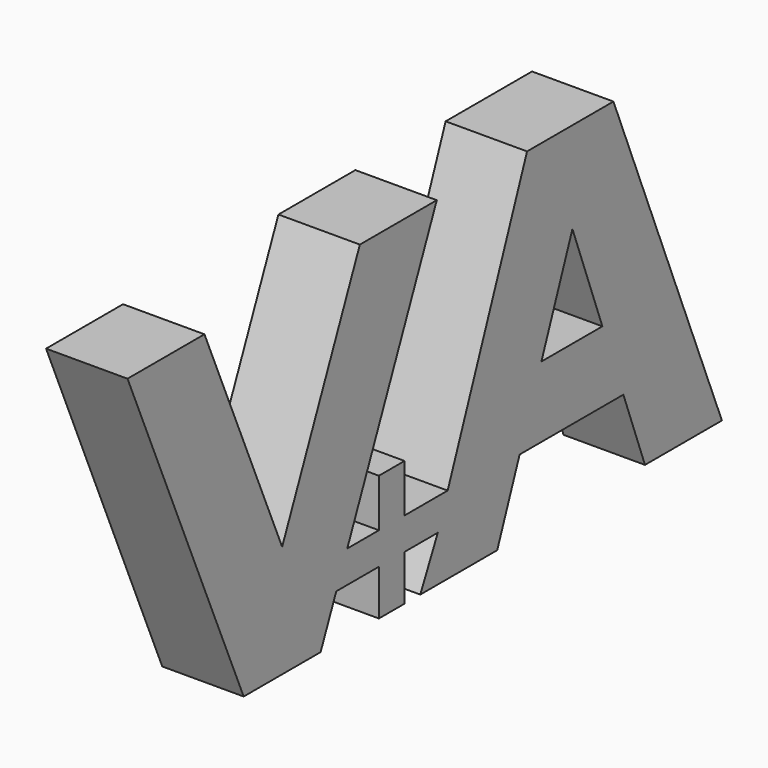
from build123d import *

# Parameters (mm, degrees)
F0_W     = 10
F0_H     = 14.979
F1_DEPTH = 25.4


with BuildPart() as f1:
    # F0 (on Right) → F1 (new body)
    with BuildSketch(Plane.YZ):
        Polygon((-15, 0), (0, 0), (0, 35), (-30.300719, 105.701678), (-60.300719, 105.701678), align=None)
        Polygon((0, 35), (0, 0), (15, 0), (21.097634, 14.227814), (25.383346, 24.227807), (60.300719, 105.701678), (30.300719, 105.701678), align=None)
        Polygon((25.383346, 24.227807), (21.097634, 14.227814), (37.721738, 14.227814), (47.721738, 14.227814), (60.695679, 14.227814), (64.538638, 24.227807), (60.383346, 24.227807), (47.721738, 24.227807), (37.721738, 24.227807), align=None)
        Polygon((47.721738, 14.227814), (37.721738, 14.227814), (37.721738, 3.892835), (37.721738, 0), (47.721738, 0), align=None)
        with Locations((42.721738, 31.717307)):
            Rectangle(F0_W, F0_H)
        Polygon((64.538638, 24.227807), (60.695679, 14.227814), (53.866729, 0), (83.866729, 0), (92.599059, 22.722918), (101.085203, 44.805224), (113.184385, 76.289229), (124.860763, 44.805224), (133.05036, 22.722918), (141.47754, 0), (171.47754, 0), (129.177219, 104.78989), (95.498335, 104.78989), align=None)
        Polygon((101.085203, 44.805224), (92.599059, 22.722918), (133.05036, 22.722918), (124.860763, 44.805224), align=None)
    extrude(amount=F1_DEPTH)


solid = f1.part
